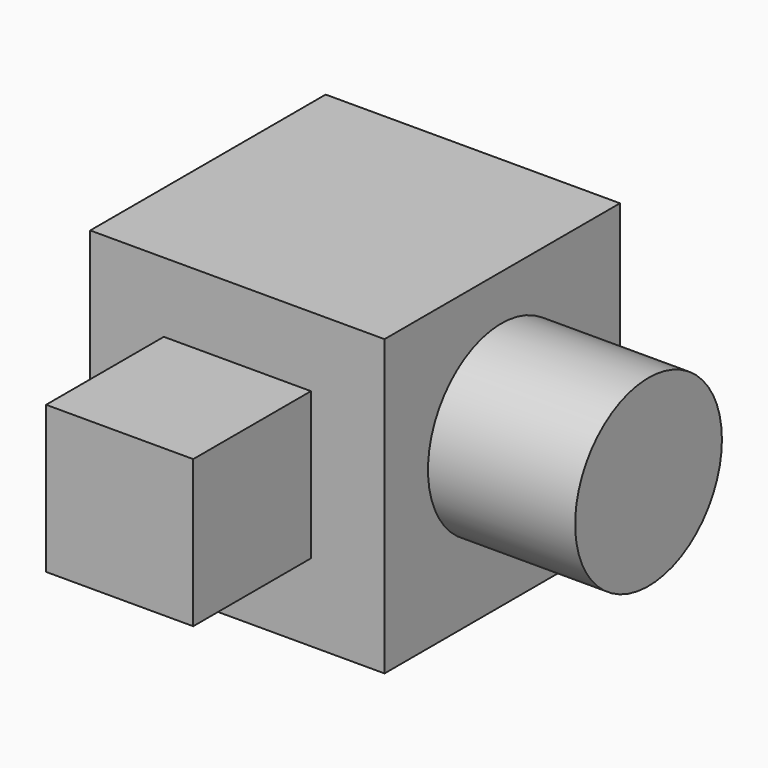
from build123d import *

# Parameters (mm, degrees)
F0_W     = 50.8
F0_H     = 50.8
F1_DEPTH = 50.8
F2_W     = 25.4
F2_H     = 25.4
F3_DEPTH = 25.4
F4_W     = 25.4
F4_H     = 25.4
F5_DEPTH = 25.4
F6_R     = 15.835428
F7_DEPTH = 25.4
F8_R     = 14.993286
F9_DEPTH = 25.4


with BuildPart() as f1:
    # F0 (on Front) → F1 (new body)
    with BuildSketch(Plane.XZ):
        with Locations((-39.33969, 36.284415)):
            Rectangle(F0_W, F0_H)
    extrude(amount=F1_DEPTH)

    # F2 (on face) → F3 (join)
    with BuildSketch(Plane.XZ.offset(50.8)):
        with Locations((-39.33969, 36.951241)):
            Rectangle(F2_W, F2_H)
    extrude(amount=F3_DEPTH)

    # F4 (on face) → F5 (cut)
    with BuildSketch(Plane(origin=(-64.73969, 0, 0), x_dir=(0, -1, 0), z_dir=(-1, 0, 0))):
        with Locations((25.4, 37.333151)):
            Rectangle(F4_W, F4_H)
    extrude(amount=-F5_DEPTH, mode=Mode.SUBTRACT)

    # F6 (on face) → F7 (join)
    with BuildSketch(Plane.YZ.offset(-13.93969)):
        with Locations((-25.587924, 37.999976)):
            Circle(F6_R)
    extrude(amount=F7_DEPTH)

    # F8 (on face) → F9 (cut)
    with BuildSketch(Plane(origin=(0, 0, 0), x_dir=(-1, 0, 0), z_dir=(0, 1, 0))):
        with Locations((39.527614, 36.472339)):
            Circle(F8_R)
    extrude(amount=-F9_DEPTH, mode=Mode.SUBTRACT)


solid = f1.part
